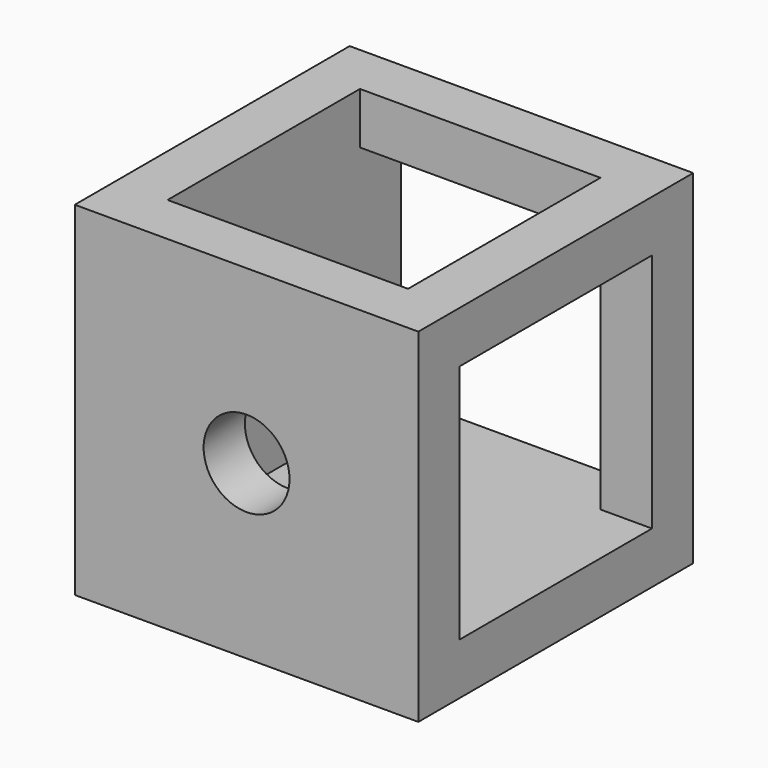
from build123d import *

# Parameters (mm, degrees)
SKETCH026_W     = 20
SKETCH026_H     = 20
PAD014_DEPTH    = 10
SKETCH027_R     = 2.5
HOLE006_DEPTH   = 25
SKETCH028_R     = 2.5
HOLE007_DEPTH   = 25
SKETCH029_R     = 2.5
HOLE008_DEPTH   = 25
SKETCH030_W     = 14
SKETCH030_H     = 14
POCKET006_DEPTH = 17
SKETCH031_W     = 14
SKETCH031_H     = 14
POCKET007_DEPTH = 17
SKETCH032_W     = 14
SKETCH032_H     = 14
POCKET008_DEPTH = 17


with BuildPart() as part:
    # Sketch026 → Pad014 (new body, symmetric)
    with BuildSketch(Plane.XZ):
        Rectangle(SKETCH026_W, SKETCH026_H)
    extrude(amount=PAD014_DEPTH, both=True)

    # Sketch027 (on Face1 of Pad014) → Hole006 (cut)
    with BuildSketch(Plane(origin=(0, 0, 10), x_dir=(-1, 0, 0), z_dir=(0, 0, 1))):
        Circle(SKETCH027_R)
    extrude(amount=-HOLE006_DEPTH, mode=Mode.SUBTRACT)

    # Sketch028 (on Face2 of Hole006) → Hole007 (cut)
    with BuildSketch(Plane(origin=(10, 0, 0), x_dir=(0, 0, 1), z_dir=(1, 0, 0))):
        Circle(SKETCH028_R)
    extrude(amount=-HOLE007_DEPTH, mode=Mode.SUBTRACT)

    # Sketch029 (on Face3 of Hole006) → Hole008 (cut)
    with BuildSketch(Plane(origin=(0, 10, 0), x_dir=(1, 0, 0), z_dir=(0, 1, 0))):
        Circle(SKETCH029_R)
    extrude(amount=-HOLE008_DEPTH, mode=Mode.SUBTRACT)

    # Sketch030 (on Face2 of Hole008) → Pocket006 (cut)
    with BuildSketch(Plane(origin=(10, 0, 0), x_dir=(0, 0, 1), z_dir=(1, 0, 0))):
        Rectangle(SKETCH030_W, SKETCH030_H)
    extrude(amount=-POCKET006_DEPTH, mode=Mode.SUBTRACT)

    # Sketch031 (on Face3 of Pocket006) → Pocket007 (cut)
    with BuildSketch(Plane(origin=(0, 10, 0), x_dir=(1, 0, 0), z_dir=(0, 1, 0))):
        Rectangle(SKETCH031_W, SKETCH031_H)
    extrude(amount=-POCKET007_DEPTH, mode=Mode.SUBTRACT)

    # Sketch032 (on Face1 of Pocket007) → Pocket008 (cut)
    with BuildSketch(Plane(origin=(0, 0, 10), x_dir=(-1, 0, 0), z_dir=(0, 0, 1))):
        Rectangle(SKETCH032_W, SKETCH032_H)
    extrude(amount=-POCKET008_DEPTH, mode=Mode.SUBTRACT)


solid = part.part
